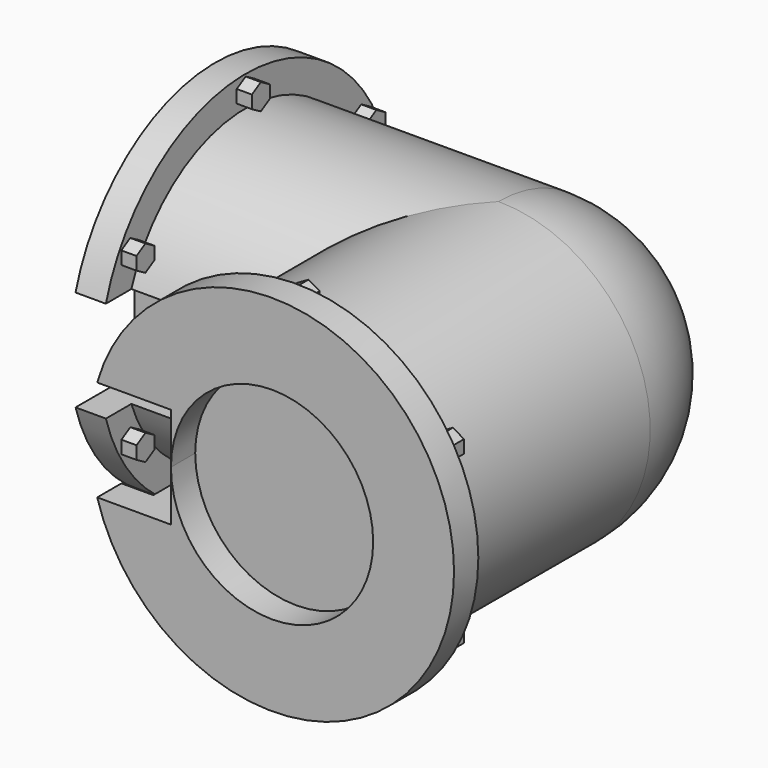
from build123d import *

# Parameters (mm, degrees)
SPHERE_ANGLE          = 90
SKETCH_R              = 15
PAD_DEPTH             = 25
SKETCH001_R           = 15
PAD001_DEPTH          = 25
SKETCH002_R           = 18
PAD002_DEPTH          = 3
SKETCH003_R           = 18
PAD003_DEPTH          = 3
PAD004_DEPTH          = 1.5
POLARPATTERN_COUNT    = 6
PAD005_DEPTH          = 1.5
POLARPATTERN001_COUNT = 6
SKETCH010_W           = 18
SKETCH010_H           = 10
POCKET_DEPTH          = 18
SKETCH011_R           = 10
POCKET001_DEPTH       = 3
SKETCH012_R           = 10
POCKET002_DEPTH       = 3


with BuildPart() as part:
    # Sphere → Sphere (revolve)
    with BuildSketch(Plane.XZ):
        with BuildLine():
            ThreePointArc((0, -15), (15, 0), (0, 15))
            Line((0, 15), (0, -15))
        make_face()
    revolve(axis=Axis((0, 0, 0), (0, 0, 1)), revolution_arc=SPHERE_ANGLE)

    # Sketch (on Face2 of Sphere) → Pad (new body)
    with BuildSketch(Plane.XZ):
        Circle(SKETCH_R)
    extrude(amount=PAD_DEPTH)

    # Sketch001 (on Face2 of Pad) → Pad001 (join)
    with BuildSketch(Plane(origin=(0, 0, 0), x_dir=(0, -1, 0), z_dir=(-1, 0, 0))):
        Circle(SKETCH001_R)
    extrude(amount=PAD001_DEPTH)

    # Sketch002 (on Face4 of Pad001) → Pad002 (join)
    with BuildSketch(Plane(origin=(-25, 0, 0), x_dir=(0, -1, 0), z_dir=(-1, 0, 0))):
        Circle(SKETCH002_R)
    extrude(amount=PAD002_DEPTH)

    # Sketch003 (on Face7 of Pad002) → Pad003 (join)
    with BuildSketch(Plane.XZ.offset(25)):
        Circle(SKETCH003_R)
    extrude(amount=PAD003_DEPTH)

    # Sketch004 (on Face2 of Pad003) → Pad004 (join)
    with BuildSketch(Plane(origin=(0, -25, 0), x_dir=(-1, 0, 0), z_dir=(0, 1, 0))):
        Polygon((-1.11579, 17.121659), (-0.012041, 17.758909), (1.091708, 17.121659), (1.091708, 15.84716), (-0.012041, 15.209911), (-1.11579, 15.84716), align=None)
    pad004 = extrude(amount=PAD004_DEPTH)

    # PolarPattern: Pad004 ×6 about axis
    polarpattern_axis = Axis((0, -25, 0), (0, 1, 0))
    for i in range(1, POLARPATTERN_COUNT):
        add(pad004.rotate(polarpattern_axis, i * 360 / POLARPATTERN_COUNT))

    # Sketch009 (on Face49 of PolarPattern) → Pad005 (join)
    with BuildSketch(Plane.YZ.offset(-25)):
        Polygon((-1.11579, 17.121659), (-0.012041, 17.758909), (1.091708, 17.121659), (1.091708, 15.84716), (-0.012041, 15.209911), (-1.11579, 15.84716), align=None)
    pad005 = extrude(amount=PAD005_DEPTH)

    # PolarPattern001: Pad005 ×6 about axis
    polarpattern001_axis = Axis((-25, 0, 0), (1, 0, 0))
    for i in range(1, POLARPATTERN001_COUNT):
        add(pad005.rotate(polarpattern001_axis, i * 360 / POLARPATTERN001_COUNT))

    # Sketch010 (on Face3 of PolarPattern001) → Pocket (cut)
    with BuildSketch(Plane.XZ.offset(28)):
        with Locations((-19, 0)):
            Rectangle(SKETCH010_W, SKETCH010_H)
    extrude(amount=-POCKET_DEPTH, mode=Mode.SUBTRACT)

    # Sketch011 (on Face4 of Pocket) → Pocket001 (cut)
    with BuildSketch(Plane.XZ.offset(28)):
        Circle(SKETCH011_R)
    extrude(amount=-POCKET001_DEPTH, mode=Mode.SUBTRACT)

    # Sketch012 (on Face50 of Pocket001) → Pocket002 (cut)
    with BuildSketch(Plane(origin=(-28, 0, 0), x_dir=(0, -1, 0), z_dir=(-1, 0, 0))):
        Circle(SKETCH012_R)
    extrude(amount=-POCKET002_DEPTH, mode=Mode.SUBTRACT)


solid = part.part
